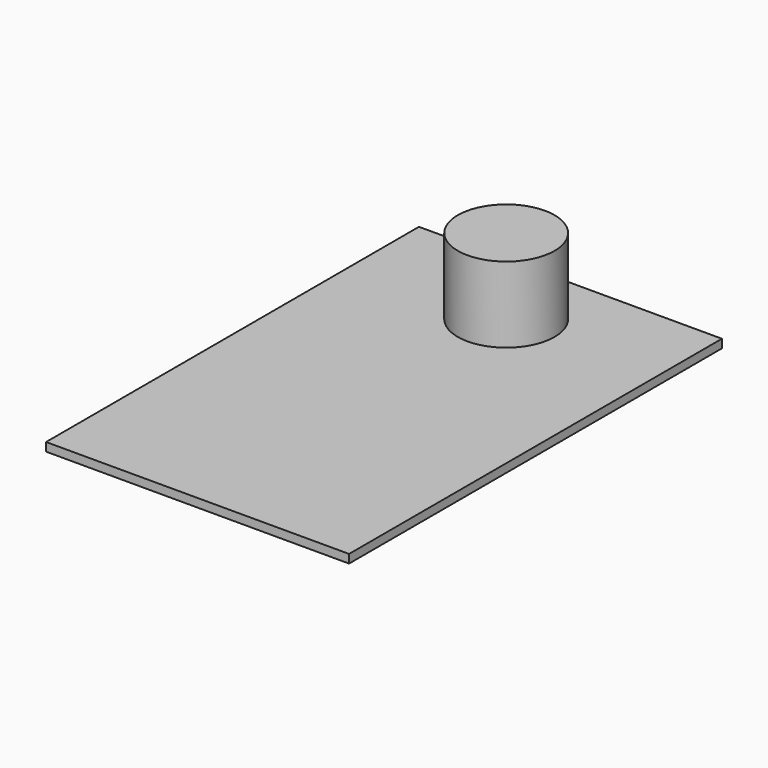
from build123d import *

# Parameters (mm, degrees)
F0_W     = 90.371005
F0_H     = 139.010184
F1_DEPTH = 2.54
F2_T     = -2.54
F3_R     = 14.428141
F4_DEPTH = 22.606


with BuildPart() as f1:
    # F0 (on Top) → F1 (new body)
    with BuildSketch(Plane.XY):
        with Locations((-13.526871, -9.353686)):
            Rectangle(F0_W, F0_H)
    extrude(amount=-F1_DEPTH)

    # F2
    f2_openings = [f1.faces().sort_by_distance(p)[0] for p in [
        (-13.526872, -9.353686, 0),
    ]]
    offset(amount=F2_T, openings=f2_openings)

    # F3 (on face) → F4 (join)
    with BuildSketch(Plane.XY):
        with Locations((-13.762863, 36.496103)):
            Circle(F3_R)
    extrude(amount=F4_DEPTH)


solid = f1.part
